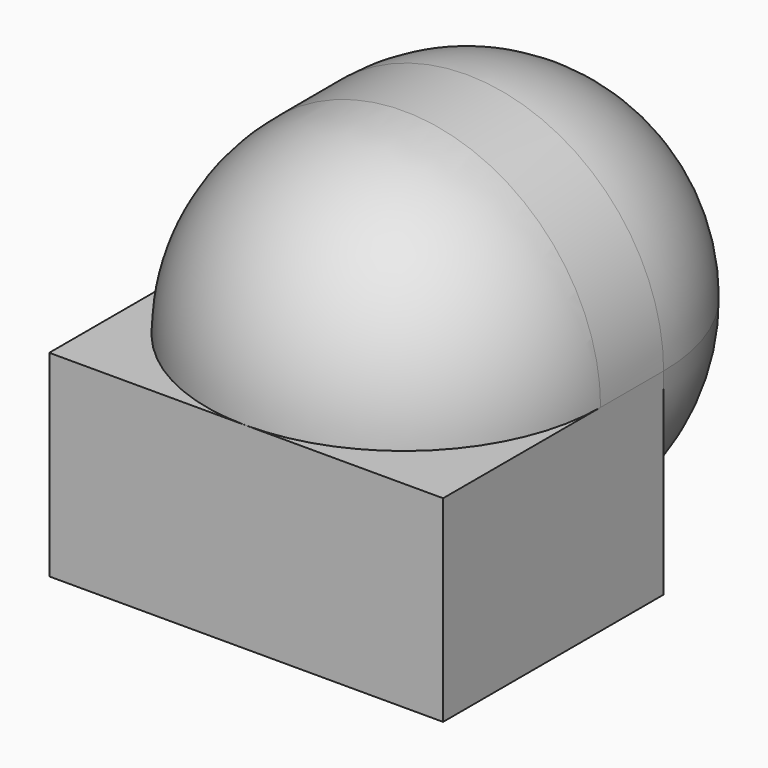
from build123d import *

# Parameters (mm, degrees)
F4_DEPTH = 25.4
F5_ANGLE = 90
F7_W     = 63.5
F7_H     = 63.5
F8_DEPTH = 88.9


with BuildPart() as f1:
    # F0 (on Front) → F1 (revolve)
    with BuildSketch(Plane.XZ):
        with BuildLine():
            Line((0, 63.5), (0, -63.5))
            ThreePointArc((0, -63.5), (44.9012806053, -44.9012806053), (63.5, 0))
            ThreePointArc((63.5, 0), (44.9012806053, 44.9012806053), (0, 63.5))
        make_face()
    revolve(axis=Axis((0, 0, 5.784236908), (0, 0, 1)))

    # F3 (on offset) → F4 (join)
    with BuildSketch(Plane.XZ.offset(25.4)):
        with BuildLine():
            Line((-63.5, 0), (63.5, 0))
            ThreePointArc((63.5, 0), (0, 63.5), (-63.5, 0))
        make_face()
    extrude(amount=-F4_DEPTH)

    # F4_face (on face) → F5 (revolve)
    with BuildSketch(Plane(origin=(0, -25.4, 38.7624051915), x_dir=(1, 0, 0), z_dir=(0, -1, 0))):
        with BuildLine():
            ThreePointArc((63.5, -38.7624051915), (0, 24.7375948085), (-63.5, -38.7624051915))
            Line((-63.5, -38.7624051915), (-58.1987113259, -38.7624051915))
            ThreePointArc((-58.1987113259, -38.7624051915), (0, 19.4363061344), (58.1987113259, -38.7624051915))
            Line((58.1987113259, -38.7624051915), (63.5, -38.7624051915))
        make_face()
    revolve(axis=Axis((-60.849355663, -25.4, 0), (1, 0, 0)), revolution_arc=F5_ANGLE)

    # F7 (on offset) → F8 (join)
    with BuildSketch(Plane.XZ.offset(88.9)):
        with Locations((-31.75, -31.75)):
            Rectangle(F7_W, F7_H)
        with Locations((31.75, -31.75)):
            Rectangle(F7_W, F7_H)
    extrude(amount=-F8_DEPTH)


solid = f1.part
